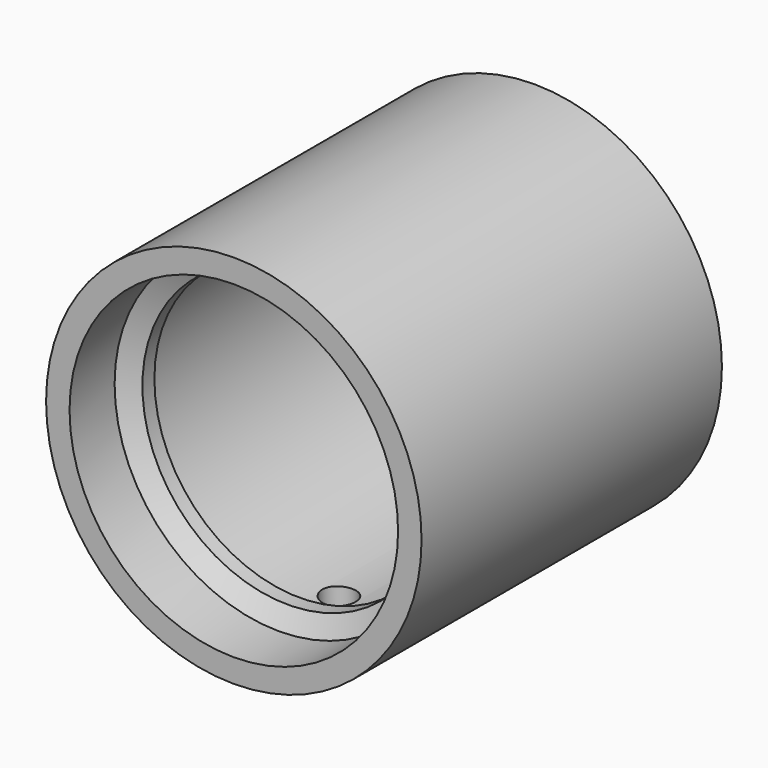
from build123d import *

# Parameters (mm, degrees)
F0_R      = 10
F1_DEPTH  = 20
F3_D      = 15.5
F5_D      = 17.5
F5_DEPTH  = 3
F5_TIP    = 5.2575304165
F7_D      = 17.5
F7_DEPTH  = 15
F7_TIP    = 5.2575304165
F10_D     = 1.778
F10_DEPTH = 12.9525
F10_START = 0.0395945
F10_TIP   = 0.5341650903


with BuildPart() as f1:
    # F0 (on Front) → F1 (new body)
    with BuildSketch(Plane.XZ):
        Circle(F0_R)
    extrude(amount=F1_DEPTH)

    # F3 (through all)
    with Locations(Plane(origin=(0, 0, 0), x_dir=(-1, 0, 0), z_dir=(0, 1, 0))):
        with Locations((0, 0)):
            Hole(F3_D / 2)

    # F5
    with Locations(Plane.XZ.offset(20)):
        with Locations((0, 0)):
            Hole(F5_D / 2, depth=F5_DEPTH)
            with Locations((0, 0, -(F5_DEPTH + F5_TIP / 2))):  # 118° drill point
                Cone(0, F5_D / 2, F5_TIP, mode=Mode.SUBTRACT)

    # F7
    with Locations(Plane(origin=(0, 0, 0), x_dir=(-1, 0, 0), z_dir=(0, 1, 0))):
        with Locations((0, 0)):
            Hole(F7_D / 2, depth=F7_DEPTH)
            with Locations((0, 0, -(F7_DEPTH + F7_TIP / 2))):  # 118° drill point
                Cone(0, F7_D / 2, F7_TIP, mode=Mode.SUBTRACT)

    # F10
    # its depths count from where the whole tool has entered the part; down to there all is cleared
    with Locations(Plane(origin=(0, 0, -10), x_dir=(1, 0, 0), z_dir=(0, 0, -1)).offset(-F10_START)):
        with Locations((0, 13)):
            Hole(F10_D / 2, depth=F10_DEPTH)
            with Locations((0, 0, -(F10_DEPTH + F10_TIP / 2))):  # 118° drill point
                Cone(0, F10_D / 2, F10_TIP, mode=Mode.SUBTRACT)


solid = f1.part
